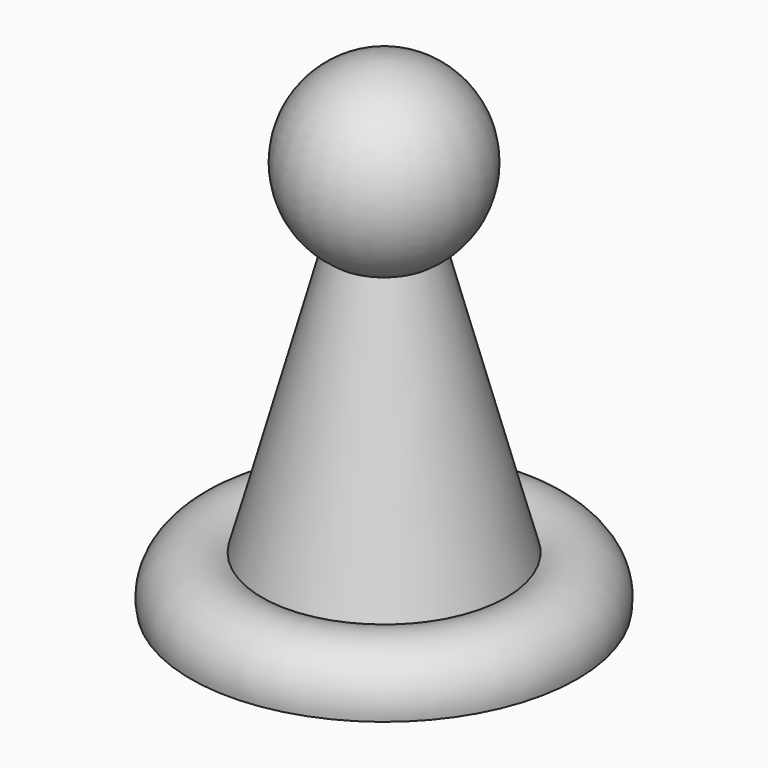
from build123d import *


with BuildPart() as f1:
    # F0 (on Front) → F1 (revolve)
    with BuildSketch(Plane.XZ):
        with BuildLine():
            Line((0, 12.796781), (0, 0))
            Line((0, 0), (50.8, 0))
            ThreePointArc((50.8, 0), (45.669996, 12.535728), (32.127718, 12.796781))
            Line((32.127718, 12.796781), (0, 12.796781))
        make_face()
        with BuildLine():
            Line((0, 79.170637), (0, 12.796781))
            Line((0, 12.796781), (32.127718, 12.796781))
            Line((32.127718, 12.796781), (12.945681, 83.125778))
            ThreePointArc((12.945681, 83.125778), (6.758507, 80.213185), (0, 79.170637))
        make_face()
        with BuildLine():
            Line((0, 127), (0, 79.170637))
            ThreePointArc((0, 79.170637), (6.758507, 80.213185), (12.945681, 83.125778))
            ThreePointArc((12.945681, 83.125778), (22.708747, 109.853513), (0, 127))
        make_face()
    revolve(axis=Axis((0, 0, 63.5), (0, 0, 1)))


solid = f1.part
